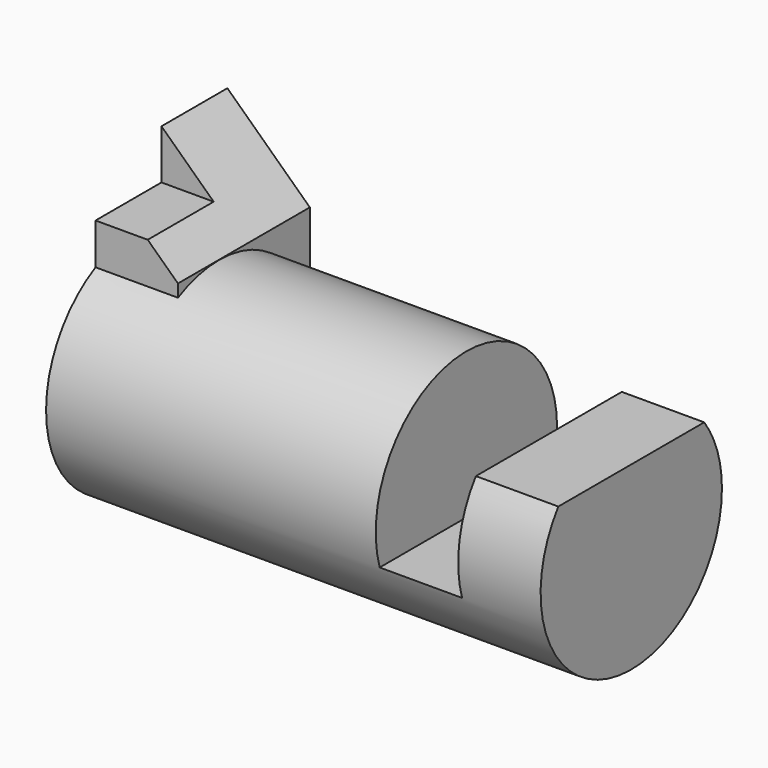
from build123d import *

# Parameters (mm, degrees)
F0_R     = 17.4625
F1_DEPTH = 76.2
F3_DEPTH = 38.1
F5_START = -38.1
F5_DEPTH = 12.7
F7_DEPTH = 25.4


with BuildPart() as f1:
    # F0 (on Right) → F1 (new body)
    with BuildSketch(Plane.YZ):
        Circle(F0_R)
    extrude(amount=-F1_DEPTH)

    # F2 (on Front) → F3 (cut, symmetric)
    with BuildSketch(Plane.XZ):
        Polygon((-12.7, -5.08), (-12.7, 0), (-12.7, 10.3669809178), (0, 10.3669809178), (0, 33.02), (-25.4, 33.02), (-25.4, -5.08), align=None)
    extrude(amount=F3_DEPTH, both=True, mode=Mode.SUBTRACT)

    # F4 (on face) → F5 (join)
    with BuildSketch(Plane.YZ.offset(-25.4).offset(F5_START)):
        with BuildLine():
            Line((-7.9375, 21.9042598667), (-7.9375, 15.5542598667))
            ThreePointArc((-7.9375, 15.5542598667), (9.1194932014, 14.8920700374), (17.4625, 0))
            Line((17.4625, 0), (17.4625, 29.5242598667))
            Line((17.4625, 29.5242598667), (4.7625, 29.5242598667))
            Line((4.7625, 29.5242598667), (4.7625, 21.9042598667))
            Line((4.7625, 21.9042598667), (-7.9375, 21.9042598667))
        make_face()
    extrude(amount=-F5_DEPTH)

    # F6 (on Front) → F7 (cut, symmetric)
    with BuildSketch(Plane.XZ):
        Polygon((-63.5, 29.5242598667), (-76.2, 29.5242598667), (-63.5, 17.4918052011), align=None)
    extrude(amount=F7_DEPTH, both=True, mode=Mode.SUBTRACT)


solid = f1.part
